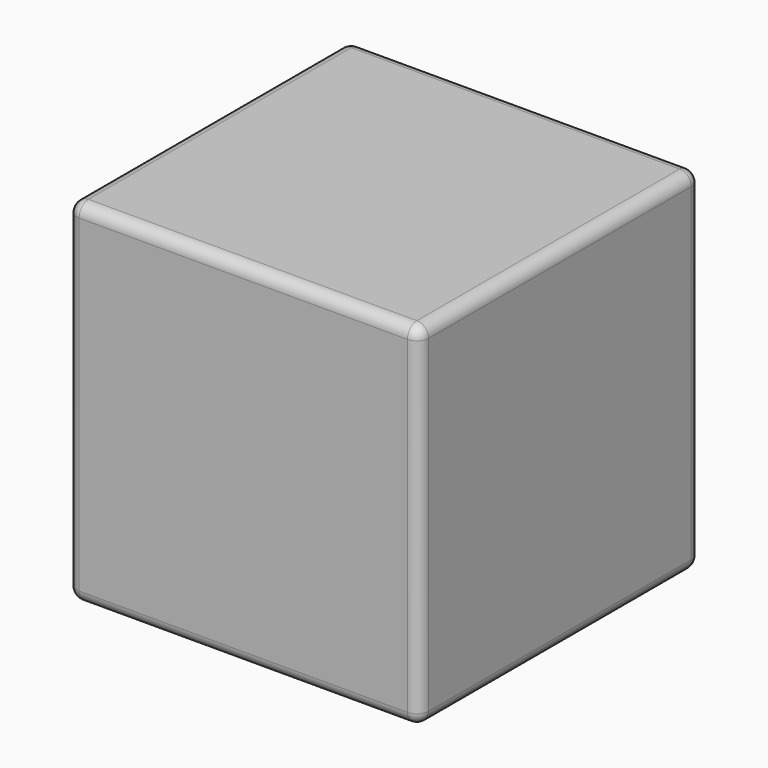
from build123d import *

# Parameters (mm, degrees)
F0_W     = 30
F0_H     = 30
F1_DEPTH = 30
F2_T     = -2.5
F3_R     = 1


with BuildPart() as f1:
    # F0 (on Front) → F1 (new body)
    with BuildSketch(Plane.XZ):
        with Locations((15, 15)):
            Rectangle(F0_W, F0_H)
    extrude(amount=F1_DEPTH)

    # F2
    f2_openings = [f1.faces().sort_by_distance(p)[0] for p in [
        (15, -15, 0),
    ]]
    offset(amount=F2_T, openings=f2_openings)

    # F3
    f3_edges = [f1.edges().sort_by_distance(p)[0] for p in [
        (30, -15, 30),
        (30, -15, 0),
        (0, -15, 0),
        (2.5, -15, 0),
        (15, 0, 0),
        (15, -30, 0),
        (15, 0, 30),
        (27.5, -15, 0),
        (2.5, -15, 27.5),
        (15, -2.5, 0),
        (15, -27.5, 0),
        (0, -15, 30),
        (15, -30, 30),
        (0, 0, 15),
        (0, -30, 15),
        (30, 0, 15),
        (30, -30, 15),
        (27.5, -15, 27.5),
        (15, -2.5, 27.5),
        (15, -27.5, 27.5),
        (2.5, -2.5, 13.75),
        (2.5, -27.5, 13.75),
        (27.5, -2.5, 13.75),
        (27.5, -27.5, 13.75),
    ]]
    fillet(f3_edges, radius=F3_R)


solid = f1.part
